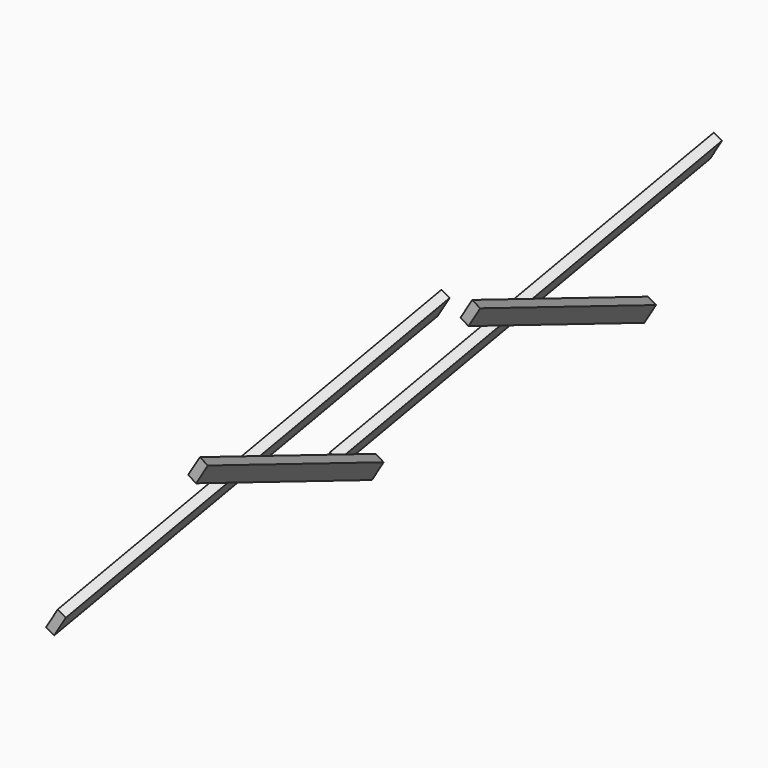
from build123d import *

# Parameters (mm, degrees)
PAD012_DEPTH          = 45
CLONE_PLACEMENT_ANGLE = 180
ARRAY002_Y_COUNT      = 2
ARRAY002_Y_PITCH      = 1645
ARRAY002_PITCH_ANGLE  = 30.991954


with BuildPart() as pad012:
    # Sketch014 → Pad012 (new body)
    with BuildSketch(Plane(origin=(-1488.522385, 4.2e-05, 258.479584), x_dir=(0, 1, 0), z_dir=(1, 0, 0))):
        Polygon((0, 0), (0, 109.696551), (1690, 1085.418506), (1690, 975.721955), align=None)
    extrude(amount=-PAD012_DEPTH)


with BuildPart() as obj1:
    # Clone base: copy of Pad012
    add(pad012.part)


with BuildPart() as obj1_1:
    # Clone placement: moved
    add(obj1.part.moved(Location((-2882.042385, 0, 1726.639584))).rotate(Axis((-2882.042385, 0, 1726.639584), (0, 1, 0)), CLONE_PLACEMENT_ANGLE))

    # Compound001: union Pad012
    add(pad012.part)


with BuildPart() as array002_copy1:
    # Array002 Y: instance of obj1
    add(obj1_1.part.moved(Location(Vector(0, 1, 0) * (1 * ARRAY002_Y_PITCH))))


with BuildPart() as obj1_2:
    # Array002 pitch: moved
    add(obj1_1.part.rotate(Axis((0, 0, 0), (0, 1, 0)), ARRAY002_PITCH_ANGLE))


with BuildPart() as array002_copy1_1:
    # Array002 pitch: moved
    add(array002_copy1.part.rotate(Axis((0, 0, 0), (0, 1, 0)), ARRAY002_PITCH_ANGLE))


with BuildPart() as obj1_3:
    # Array002 placement: moved
    add(obj1_2.part.moved(Location((269.126536, -4.2e-05, -850.504682))))


with BuildPart() as array002_copy1_2:
    # Array002 placement: moved
    add(array002_copy1_1.part.moved(Location((269.126536, -4.2e-05, -850.504682))))


solid = Compound([obj1_3.part, array002_copy1_2.part])
